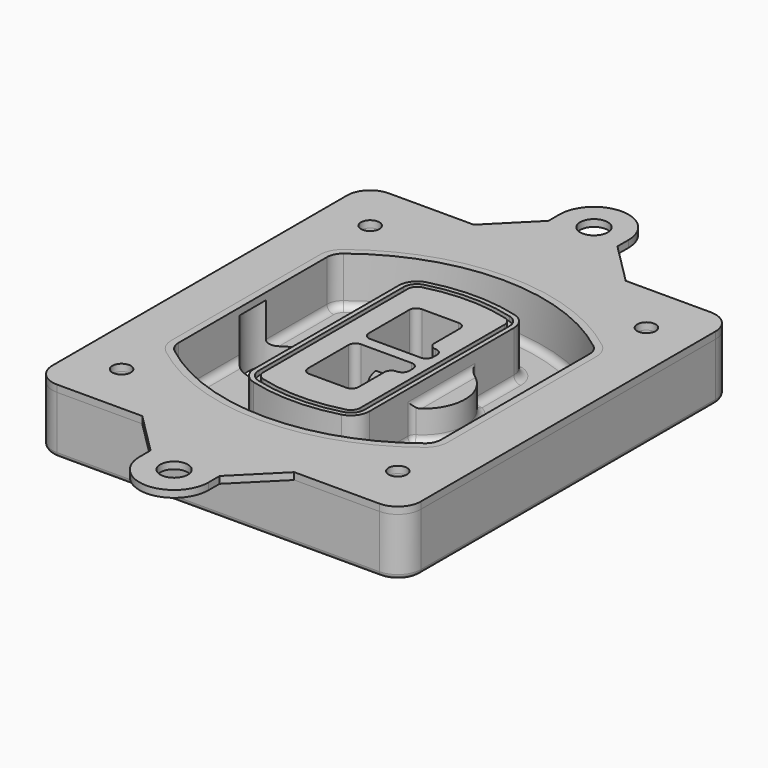
from build123d import *

# Parameters (mm, degrees)
F0_R      = 4
F1_DEPTH  = 25
F2_DEPTH  = 3
F3_DEPTH  = 18
F5_DEPTH  = 21
F6_DEPTH  = 2
F8_DEPTH  = 20
F9_DEPTH  = 16
F10_DEPTH = 25
F7_R      = 6
F7_R_2    = 4
F11_DEPTH = 6
F13_DEPTH = 9
F14_R     = 3
F15_R     = 2
F16_R     = 4
F16_R_2   = 6
F17_DEPTH = 3


with BuildPart() as f1:
    # F0 (on Top) → F1 (new body)
    with BuildSketch(Plane.XY):
        with BuildLine():
            ThreePointArc((-80, -80), (-77.0710678119, -87.0710678119), (-70, -90))
            Line((-70, -90), (70, -90))
            ThreePointArc((70, -90), (77.0710678119, -87.0710678119), (80, -80))
            Line((80, -80), (80, 80))
            ThreePointArc((80, 80), (77.0710678119, 87.0710678119), (70, 90))
            Line((70, 90), (-70, 90))
            ThreePointArc((-70, 90), (-77.0710678119, 87.0710678119), (-80, 80))
            Line((-80, 80), (-80, -80))
        make_face()
        with Locations((-60, -67.5)):
            Circle(F0_R, mode=Mode.SUBTRACT)
        with Locations((60, -67.5)):
            Circle(F0_R, mode=Mode.SUBTRACT)
        with Locations((-60, 67.5)):
            Circle(F0_R, mode=Mode.SUBTRACT)
        with BuildLine():
            ThreePointArc((-64, 40.2934422872), (-62.5820384798, 46.4328484224), (-58.6153846154, 51.3286200352))
            ThreePointArc((-58.6153846154, 51.3286200352), (0, 71.5), (58.6153846154, 51.3286200352))
            ThreePointArc((58.6153846154, 51.3286200352), (62.5820384798, 46.4328484224), (64, 40.2934422872))
            Line((64, 40.2934422872), (64, -40.2934422872))
            ThreePointArc((64, -40.2934422872), (62.5820384798, -46.4328484224), (58.6153846154, -51.3286200352))
            ThreePointArc((58.6153846154, -51.3286200352), (0, -71.5), (-58.6153846154, -51.3286200352))
            ThreePointArc((-58.6153846154, -51.3286200352), (-62.5820384798, -46.4328484224), (-64, -40.2934422872))
            Line((-64, -40.2934422872), (-64, 40.2934422872))
        make_face(mode=Mode.SUBTRACT)
        with Locations((60, 67.5)):
            Circle(F0_R, mode=Mode.SUBTRACT)
        with BuildLine():
            ThreePointArc((58.6153846154, 51.3286200352), (0, 71.5), (-58.6153846154, 51.3286200352))
            ThreePointArc((-58.6153846154, 51.3286200352), (-62.5820384798, 46.4328484224), (-64, 40.2934422872))
            Line((-64, 40.2934422872), (-64, -40.2934422872))
            ThreePointArc((-64, -40.2934422872), (-62.5820384798, -46.4328484224), (-58.6153846154, -51.3286200352))
            ThreePointArc((-58.6153846154, -51.3286200352), (0, -71.5), (58.6153846154, -51.3286200352))
            ThreePointArc((58.6153846154, -51.3286200352), (62.5820384798, -46.4328484224), (64, -40.2934422872))
            Line((64, -40.2934422872), (64, 40.2934422872))
            ThreePointArc((64, 40.2934422872), (62.5820384798, 46.4328484224), (58.6153846154, 51.3286200352))
        make_face()
        with BuildLine():
            Line((-60, -40.2934422872), (-60, 40.2934422872))
            ThreePointArc((-60, 40.2934422872), (-58.9871703427, 44.6787323838), (-56.1538461538, 48.1757121072))
            ThreePointArc((-56.1538461538, 48.1757121072), (0, 67.5), (56.1538461538, 48.1757121072))
            ThreePointArc((56.1538461538, 48.1757121072), (58.9871703427, 44.6787323838), (60, 40.2934422872))
            Line((60, 40.2934422872), (60, -40.2934422872))
            ThreePointArc((60, -40.2934422872), (58.9871703427, -44.6787323838), (56.1538461538, -48.1757121072))
            ThreePointArc((56.1538461538, -48.1757121072), (0, -67.5), (-56.1538461538, -48.1757121072))
            ThreePointArc((-56.1538461538, -48.1757121072), (-58.9871703427, -44.6787323838), (-60, -40.2934422872))
        make_face(mode=Mode.SUBTRACT)
        with BuildLine():
            ThreePointArc((-56.1538461538, 48.1757121072), (-58.9871703427, 44.6787323838), (-60, 40.2934422872))
            Line((-60, 40.2934422872), (-60, -40.2934422872))
            ThreePointArc((-60, -40.2934422872), (-58.9871703427, -44.6787323838), (-56.1538461538, -48.1757121072))
            ThreePointArc((-56.1538461538, -48.1757121072), (0, -67.5), (56.1538461538, -48.1757121072))
            ThreePointArc((56.1538461538, -48.1757121072), (58.9871703427, -44.6787323838), (60, -40.2934422872))
            Line((60, -40.2934422872), (60, 40.2934422872))
            ThreePointArc((60, 40.2934422872), (58.9871703427, 44.6787323838), (56.1538461538, 48.1757121072))
            ThreePointArc((56.1538461538, 48.1757121072), (0, 67.5), (-56.1538461538, 48.1757121072))
        make_face()
        with BuildLine():
            ThreePointArc((54.3076923077, 45.8110311612), (56.2910192399, 43.3631453548), (57, 40.2934422872))
            Line((57, 40.2934422872), (57, -40.2934422872))
            ThreePointArc((57, -40.2934422872), (56.2910192399, -43.3631453548), (54.3076923077, -45.8110311612))
            ThreePointArc((54.3076923077, -45.8110311612), (0, -64.5), (-54.3076923077, -45.8110311612))
            ThreePointArc((-54.3076923077, -45.8110311612), (-56.2910192399, -43.3631453548), (-57, -40.2934422872))
            Line((-57, -40.2934422872), (-57, 40.2934422872))
            ThreePointArc((-57, 40.2934422872), (-56.2910192399, 43.3631453548), (-54.3076923077, 45.8110311612))
            ThreePointArc((-54.3076923077, 45.8110311612), (0, 64.5), (54.3076923077, 45.8110311612))
        make_face(mode=Mode.SUBTRACT)
        with BuildLine():
            Line((57, -40.2934422872), (57, 40.2934422872))
            ThreePointArc((57, 40.2934422872), (56.2910192399, 43.3631453548), (54.3076923077, 45.8110311612))
            ThreePointArc((54.3076923077, 45.8110311612), (0, 64.5), (-54.3076923077, 45.8110311612))
            ThreePointArc((-54.3076923077, 45.8110311612), (-56.2910192399, 43.3631453548), (-57, 40.2934422872))
            Line((-57, 40.2934422872), (-57, -40.2934422872))
            ThreePointArc((-57, -40.2934422872), (-56.2910192399, -43.3631453548), (-54.3076923077, -45.8110311612))
            ThreePointArc((-54.3076923077, -45.8110311612), (0, -64.5), (54.3076923077, -45.8110311612))
            ThreePointArc((54.3076923077, -45.8110311612), (56.2910192399, -43.3631453548), (57, -40.2934422872))
        make_face()
    extrude(amount=-F1_DEPTH)

    # F0 (on Top) → F2 (join)
    with BuildSketch(Plane.XY):
        with BuildLine():
            ThreePointArc((-56.1538461538, 48.1757121072), (-58.9871703427, 44.6787323838), (-60, 40.2934422872))
            Line((-60, 40.2934422872), (-60, -40.2934422872))
            ThreePointArc((-60, -40.2934422872), (-58.9871703427, -44.6787323838), (-56.1538461538, -48.1757121072))
            ThreePointArc((-56.1538461538, -48.1757121072), (0, -67.5), (56.1538461538, -48.1757121072))
            ThreePointArc((56.1538461538, -48.1757121072), (58.9871703427, -44.6787323838), (60, -40.2934422872))
            Line((60, -40.2934422872), (60, 40.2934422872))
            ThreePointArc((60, 40.2934422872), (58.9871703427, 44.6787323838), (56.1538461538, 48.1757121072))
            ThreePointArc((56.1538461538, 48.1757121072), (0, 67.5), (-56.1538461538, 48.1757121072))
        make_face()
        with BuildLine():
            ThreePointArc((54.3076923077, 45.8110311612), (56.2910192399, 43.3631453548), (57, 40.2934422872))
            Line((57, 40.2934422872), (57, -40.2934422872))
            ThreePointArc((57, -40.2934422872), (56.2910192399, -43.3631453548), (54.3076923077, -45.8110311612))
            ThreePointArc((54.3076923077, -45.8110311612), (0, -64.5), (-54.3076923077, -45.8110311612))
            ThreePointArc((-54.3076923077, -45.8110311612), (-56.2910192399, -43.3631453548), (-57, -40.2934422872))
            Line((-57, -40.2934422872), (-57, 40.2934422872))
            ThreePointArc((-57, 40.2934422872), (-56.2910192399, 43.3631453548), (-54.3076923077, 45.8110311612))
            ThreePointArc((-54.3076923077, 45.8110311612), (0, 64.5), (54.3076923077, 45.8110311612))
        make_face(mode=Mode.SUBTRACT)
    extrude(amount=F2_DEPTH)

    # F0 (on Top) → F3 (cut)
    with BuildSketch(Plane.XY):
        with BuildLine():
            Line((57, -40.2934422872), (57, 40.2934422872))
            ThreePointArc((57, 40.2934422872), (56.2910192399, 43.3631453548), (54.3076923077, 45.8110311612))
            ThreePointArc((54.3076923077, 45.8110311612), (0, 64.5), (-54.3076923077, 45.8110311612))
            ThreePointArc((-54.3076923077, 45.8110311612), (-56.2910192399, 43.3631453548), (-57, 40.2934422872))
            Line((-57, 40.2934422872), (-57, -40.2934422872))
            ThreePointArc((-57, -40.2934422872), (-56.2910192399, -43.3631453548), (-54.3076923077, -45.8110311612))
            ThreePointArc((-54.3076923077, -45.8110311612), (0, -64.5), (54.3076923077, -45.8110311612))
            ThreePointArc((54.3076923077, -45.8110311612), (56.2910192399, -43.3631453548), (57, -40.2934422872))
        make_face()
    extrude(amount=-F3_DEPTH, mode=Mode.SUBTRACT)

    # F4 (on face) → F5 (join, through all)
    with BuildSketch(Plane.XY.offset(3)):
        with BuildLine():
            ThreePointArc((-25, -39.2465276821), (-23.3511545998, -44.1109737193), (-19.0842911877, -46.9702398883))
            ThreePointArc((-19.0842911877, -46.9702398883), (0, -49.5), (19.0842911877, -46.9702398883))
            ThreePointArc((19.0842911877, -46.9702398883), (23.3511545998, -44.1109737193), (25, -39.2465276821))
            Line((25, -39.2465276821), (25, 39.2465276821))
            ThreePointArc((25, 39.2465276821), (23.3511545998, 44.1109737193), (19.0842911877, 46.9702398883))
            ThreePointArc((19.0842911877, 46.9702398883), (0, 49.5), (-19.0842911877, 46.9702398883))
            ThreePointArc((-19.0842911877, 46.9702398883), (-23.3511545998, 44.1109737193), (-25, 39.2465276821))
            Line((-25, 39.2465276821), (-25, -39.2465276821))
        make_face()
        with BuildLine():
            ThreePointArc((18.5632183908, 45.0393118368), (21.7633659499, 42.89486221), (23, 39.2465276821))
            Line((23, 39.2465276821), (23, -39.2465276821))
            ThreePointArc((23, -39.2465276821), (21.7633659499, -42.89486221), (18.5632183908, -45.0393118368))
            ThreePointArc((18.5632183908, -45.0393118368), (0, -47.5), (-18.5632183908, -45.0393118368))
            ThreePointArc((-18.5632183908, -45.0393118368), (-21.7633659499, -42.89486221), (-23, -39.2465276821))
            Line((-23, -39.2465276821), (-23, 39.2465276821))
            ThreePointArc((-23, 39.2465276821), (-21.7633659499, 42.89486221), (-18.5632183908, 45.0393118368))
            ThreePointArc((-18.5632183908, 45.0393118368), (0, 47.5), (18.5632183908, 45.0393118368))
        make_face(mode=Mode.SUBTRACT)
        with BuildLine():
            Line((23, -39.2465276821), (23, 39.2465276821))
            ThreePointArc((23, 39.2465276821), (21.7633659499, 42.89486221), (18.5632183908, 45.0393118368))
            ThreePointArc((18.5632183908, 45.0393118368), (0, 47.5), (-18.5632183908, 45.0393118368))
            ThreePointArc((-18.5632183908, 45.0393118368), (-21.7633659499, 42.89486221), (-23, 39.2465276821))
            Line((-23, 39.2465276821), (-23, -39.2465276821))
            ThreePointArc((-23, -39.2465276821), (-21.7633659499, -42.89486221), (-18.5632183908, -45.0393118368))
            ThreePointArc((-18.5632183908, -45.0393118368), (0, -47.5), (18.5632183908, -45.0393118368))
            ThreePointArc((18.5632183908, -45.0393118368), (21.7633659499, -42.89486221), (23, -39.2465276821))
        make_face()
        with BuildLine():
            ThreePointArc((18.0421455939, 43.1083837852), (20.1755772999, 41.6787507007), (21, 39.2465276821))
            Line((21, 39.2465276821), (21, -39.2465276821))
            ThreePointArc((21, -39.2465276821), (20.1755772999, -41.6787507007), (18.0421455939, -43.1083837852))
            ThreePointArc((18.0421455939, -43.1083837852), (0, -45.5), (-18.0421455939, -43.1083837852))
            ThreePointArc((-18.0421455939, -43.1083837852), (-20.1755772999, -41.6787507007), (-21, -39.2465276821))
            Line((-21, -39.2465276821), (-21, 39.2465276821))
            ThreePointArc((-21, 39.2465276821), (-20.1755772999, 41.6787507007), (-18.0421455939, 43.1083837852))
            ThreePointArc((-18.0421455939, 43.1083837852), (0, 45.5), (18.0421455939, 43.1083837852))
        make_face(mode=Mode.SUBTRACT)
        with BuildLine():
            Line((21, -39.2465276821), (21, 39.2465276821))
            ThreePointArc((21, 39.2465276821), (20.1755772999, 41.6787507007), (18.0421455939, 43.1083837852))
            ThreePointArc((18.0421455939, 43.1083837852), (0, 45.5), (-18.0421455939, 43.1083837852))
            ThreePointArc((-18.0421455939, 43.1083837852), (-20.1755772999, 41.6787507007), (-21, 39.2465276821))
            Line((-21, 39.2465276821), (-21, -39.2465276821))
            ThreePointArc((-21, -39.2465276821), (-20.1755772999, -41.6787507007), (-18.0421455939, -43.1083837852))
            ThreePointArc((-18.0421455939, -43.1083837852), (0, -45.5), (18.0421455939, -43.1083837852))
            ThreePointArc((18.0421455939, -43.1083837852), (20.1755772999, -41.6787507007), (21, -39.2465276821))
        make_face()
        with BuildLine():
            Line((-8, -2.5), (14, -2.5))
            ThreePointArc((14, -2.5), (16.1213203436, -3.3786796564), (17, -5.5))
            Line((17, -5.5), (17, -7.5))
            ThreePointArc((17, -7.5), (16.1213203436, -9.6213203436), (14, -10.5))
            ThreePointArc((14, -10.5), (11.8786796564, -11.3786796564), (11, -13.5))
            Line((11, -13.5), (11, -27.5))
            ThreePointArc((11, -27.5), (10.1213203436, -29.6213203436), (8, -30.5))
            Line((8, -30.5), (-8, -30.5))
            ThreePointArc((-8, -30.5), (-10.1213203436, -29.6213203436), (-11, -27.5))
            Line((-11, -27.5), (-11, -5.5))
            ThreePointArc((-11, -5.5), (-10.1213203436, -3.3786796564), (-8, -2.5))
        make_face(mode=Mode.SUBTRACT)
        with BuildLine():
            ThreePointArc((-8, 2.5), (-10.1213203436, 3.3786796564), (-11, 5.5))
            Line((-11, 5.5), (-11, 27.5))
            ThreePointArc((-11, 27.5), (-10.1213203436, 29.6213203436), (-8, 30.5))
            Line((-8, 30.5), (8, 30.5))
            ThreePointArc((8, 30.5), (10.1213203436, 29.6213203436), (11, 27.5))
            Line((11, 27.5), (11, 13.5))
            ThreePointArc((11, 13.5), (11.8786796564, 11.3786796564), (14, 10.5))
            ThreePointArc((14, 10.5), (16.1213203436, 9.6213203436), (17, 7.5))
            Line((17, 7.5), (17, 5.5))
            ThreePointArc((17, 5.5), (16.1213203436, 3.3786796564), (14, 2.5))
            Line((14, 2.5), (-8, 2.5))
        make_face(mode=Mode.SUBTRACT)
    extrude(amount=-F5_DEPTH)

    # F4 (on face) → F6 (cut)
    with BuildSketch(Plane.XY.offset(3)):
        with BuildLine():
            Line((23, -39.2465276821), (23, 39.2465276821))
            ThreePointArc((23, 39.2465276821), (21.7633659499, 42.89486221), (18.5632183908, 45.0393118368))
            ThreePointArc((18.5632183908, 45.0393118368), (0, 47.5), (-18.5632183908, 45.0393118368))
            ThreePointArc((-18.5632183908, 45.0393118368), (-21.7633659499, 42.89486221), (-23, 39.2465276821))
            Line((-23, 39.2465276821), (-23, -39.2465276821))
            ThreePointArc((-23, -39.2465276821), (-21.7633659499, -42.89486221), (-18.5632183908, -45.0393118368))
            ThreePointArc((-18.5632183908, -45.0393118368), (0, -47.5), (18.5632183908, -45.0393118368))
            ThreePointArc((18.5632183908, -45.0393118368), (21.7633659499, -42.89486221), (23, -39.2465276821))
        make_face()
        with BuildLine():
            ThreePointArc((18.0421455939, 43.1083837852), (20.1755772999, 41.6787507007), (21, 39.2465276821))
            Line((21, 39.2465276821), (21, -39.2465276821))
            ThreePointArc((21, -39.2465276821), (20.1755772999, -41.6787507007), (18.0421455939, -43.1083837852))
            ThreePointArc((18.0421455939, -43.1083837852), (0, -45.5), (-18.0421455939, -43.1083837852))
            ThreePointArc((-18.0421455939, -43.1083837852), (-20.1755772999, -41.6787507007), (-21, -39.2465276821))
            Line((-21, -39.2465276821), (-21, 39.2465276821))
            ThreePointArc((-21, 39.2465276821), (-20.1755772999, 41.6787507007), (-18.0421455939, 43.1083837852))
            ThreePointArc((-18.0421455939, 43.1083837852), (0, 45.5), (18.0421455939, 43.1083837852))
        make_face(mode=Mode.SUBTRACT)
    extrude(amount=-F6_DEPTH, mode=Mode.SUBTRACT)

    # F7 (on face) → F8 (join)
    with BuildSketch(Plane(origin=(0, 0, -25), x_dir=(1, 0, 0), z_dir=(0, 0, -1))):
        with BuildLine():
            ThreePointArc((3.28842436, 0), (16.7567035675, 13.4682792075), (30.224982775, 0))
            Line((30.224982775, 0), (35.224982775, 0))
            ThreePointArc((35.224982775, 0), (16.7567035675, 18.4682792075), (-1.71157564, 0))
            Line((-1.71157564, 0), (3.28842436, 0))
        make_face()
        with BuildLine():
            Line((3.28842436, 0), (30.224982775, 0))
            ThreePointArc((30.224982775, 0), (16.7567035675, 13.4682792075), (3.28842436, 0))
        make_face()
        with BuildLine():
            ThreePointArc((3.28842436, 0), (16.7567035675, -13.4682792075), (30.224982775, 0))
            Line((30.224982775, 0), (3.28842436, 0))
        make_face()
        with BuildLine():
            Line((35.224982775, 0), (30.224982775, 0))
            ThreePointArc((30.224982775, 0), (16.7567035675, -13.4682792075), (3.28842436, 0))
            Line((3.28842436, 0), (-1.71157564, 0))
            ThreePointArc((-1.71157564, 0), (16.7567035675, -18.4682792075), (35.224982775, 0))
        make_face()
    extrude(amount=-F8_DEPTH)

    # F7 (on face) → F9 (cut)
    with BuildSketch(Plane(origin=(0, 0, -25), x_dir=(1, 0, 0), z_dir=(0, 0, -1))):
        with BuildLine():
            Line((3.28842436, 0), (30.224982775, 0))
            ThreePointArc((30.224982775, 0), (16.7567035675, 13.4682792075), (3.28842436, 0))
        make_face()
        with BuildLine():
            ThreePointArc((3.28842436, 0), (16.7567035675, -13.4682792075), (30.224982775, 0))
            Line((30.224982775, 0), (3.28842436, 0))
        make_face()
    extrude(amount=-F9_DEPTH, mode=Mode.SUBTRACT)

    # F7 (on face) → F10 (cut)
    with BuildSketch(Plane(origin=(0, 0, -25), x_dir=(1, 0, 0), z_dir=(0, 0, -1))):
        with BuildLine():
            Line((-59.0318229325, 0), (-32.0952645175, 0))
            ThreePointArc((-32.0952645175, 0), (-45.563543725, 13.4682792075), (-59.0318229325, 0))
        make_face()
        with BuildLine():
            ThreePointArc((-59.0318229325, 0), (-45.563543725, -13.4682792075), (-32.0952645175, 0))
            Line((-32.0952645175, 0), (-59.0318229325, 0))
        make_face()
    extrude(amount=-F10_DEPTH, mode=Mode.SUBTRACT)

    # F7 (on face) → F11 (cut)
    with BuildSketch(Plane(origin=(0, 0, -25), x_dir=(1, 0, 0), z_dir=(0, 0, -1))):
        with Locations((60, -67.5)):
            Circle(F7_R)
        with Locations((60, -67.5)):
            Circle(F7_R_2, mode=Mode.SUBTRACT)
        with Locations((60, -67.5)):
            Circle(F7_R)
        with Locations((60, -67.5)):
            Circle(F7_R_2, mode=Mode.SUBTRACT)
        with Locations((-60, -67.5)):
            Circle(F7_R)
        with Locations((-60, -67.5)):
            Circle(F7_R_2, mode=Mode.SUBTRACT)
        with Locations((-60, -67.5)):
            Circle(F7_R)
        with Locations((-60, -67.5)):
            Circle(F7_R_2, mode=Mode.SUBTRACT)
        with Locations((-60, 67.5)):
            Circle(F7_R)
        with Locations((-60, 67.5)):
            Circle(F7_R_2, mode=Mode.SUBTRACT)
        with Locations((-60, 67.5)):
            Circle(F7_R)
        with Locations((-60, 67.5)):
            Circle(F7_R_2, mode=Mode.SUBTRACT)
        with Locations((60, 67.5)):
            Circle(F7_R)
        with Locations((60, 67.5)):
            Circle(F7_R_2, mode=Mode.SUBTRACT)
        with Locations((60, 67.5)):
            Circle(F7_R)
        with Locations((60, 67.5)):
            Circle(F7_R_2, mode=Mode.SUBTRACT)
    extrude(amount=-F11_DEPTH, mode=Mode.SUBTRACT)

    # F12 (on face) → F13 (cut, through all)
    with BuildSketch(Plane(origin=(0, 0, -9), x_dir=(1, 0, 0), z_dir=(0, 0, -1))):
        with BuildLine():
            Line((11, 13.5), (11, 17.5481537753))
            ThreePointArc((11, 17.5481537753), (2.5696536419, 11.8239143813), (-1.5415842455, 2.5))
            Line((-1.5415842455, 2.5), (3.5224848595, 2.5))
            ThreePointArc((3.5224848595, 2.5), (6.1857188154, 8.3455872281), (11.2536447004, 12.2927168648))
            ThreePointArc((11.2536447004, 12.2927168648), (11.0640958889, 12.8831798879), (11, 13.5))
        make_face()
        with BuildLine():
            ThreePointArc((11.2536447004, -12.2927168648), (6.1857188154, -8.3455872281), (3.5224848595, -2.5))
            Line((3.5224848595, -2.5), (-1.5415842455, -2.5))
            ThreePointArc((-1.5415842455, -2.5), (2.5696536419, -11.8239143813), (11, -17.5481537753))
            Line((11, -17.5481537753), (11, -13.5))
            ThreePointArc((11, -13.5), (11.0640958889, -12.8831798879), (11.2536447004, -12.2927168648))
        make_face()
        with BuildLine():
            ThreePointArc((11.2536447004, 12.2927168648), (6.1857188154, 8.3455872281), (3.5224848595, 2.5))
            Line((3.5224848595, 2.5), (14, 2.5))
            ThreePointArc((14, 2.5), (16.1213203436, 3.3786796564), (17, 5.5))
            Line((17, 5.5), (17, 7.5))
            ThreePointArc((17, 7.5), (16.1213203436, 9.6213203436), (14, 10.5))
            ThreePointArc((14, 10.5), (12.3601599782, 10.9878446101), (11.2536447004, 12.2927168648))
        make_face()
        with BuildLine():
            Line((14, -2.5), (3.5224848595, -2.5))
            ThreePointArc((3.5224848595, -2.5), (6.1857188154, -8.3455872281), (11.2536447004, -12.2927168648))
            ThreePointArc((11.2536447004, -12.2927168648), (12.3601599782, -10.9878446101), (14, -10.5))
            ThreePointArc((14, -10.5), (16.1213203436, -9.6213203436), (17, -7.5))
            Line((17, -7.5), (17, -5.5))
            ThreePointArc((17, -5.5), (16.1213203436, -3.3786796564), (14, -2.5))
        make_face()
    extrude(amount=F13_DEPTH, mode=Mode.SUBTRACT)

    # F14
    f14_edges = [f1.edges().sort_by_distance(p)[0] for p in [
        (-57, -23.703476, -18),
        (-57, 23.703476, -18),
        (25, 0, -5),
        (25, 16.526506, -11.5),
        (25, -16.526506, -11.5),
        (25, -27.886517, -18),
        (35.224983, 0, -18),
    ]]
    fillet(f14_edges, radius=F14_R)

    # F15
    f15_edges = [f1.edges().sort_by_distance(p)[0] for p in [
        (0, -90, -25),
    ]]
    fillet(f15_edges, radius=F15_R)


with BuildPart() as f17:
    # F16 (on face) → F17 (new body, through all)
    with BuildSketch(Plane.XY):
        with BuildLine():
            Line((-33, 90), (-70, 90))
            ThreePointArc((-70, 90), (-77.0710678119, 87.0710678119), (-80, 80))
            Line((-80, 80), (-80, -80))
            ThreePointArc((-80, -80), (-77.0710678119, -87.0710678119), (-70, -90))
            Line((-70, -90), (-33, -90))
            Line((-33, -90), (33, -90))
            Line((33, -90), (70, -90))
            ThreePointArc((70, -90), (77.0710678119, -87.0710678119), (80, -80))
            Line((80, -80), (80, 80))
            ThreePointArc((80, 80), (77.0710678119, 87.0710678119), (70, 90))
            Line((70, 90), (33, 90))
            Line((33, 90), (-33, 90))
        make_face()
        with Locations((-60, -67.5)):
            Circle(F16_R, mode=Mode.SUBTRACT)
        with Locations((60, -67.5)):
            Circle(F16_R, mode=Mode.SUBTRACT)
        with Locations((-60, 67.5)):
            Circle(F16_R, mode=Mode.SUBTRACT)
        with BuildLine():
            ThreePointArc((56.1538461538, -48.1757121072), (0, -67.5), (-56.1538461538, -48.1757121072))
            ThreePointArc((-56.1538461538, -48.1757121072), (-58.9871703427, -44.6787323838), (-60, -40.2934422872))
            Line((-60, -40.2934422872), (-60, 40.2934422872))
            ThreePointArc((-60, 40.2934422872), (-58.9871703427, 44.6787323838), (-56.1538461538, 48.1757121072))
            ThreePointArc((-56.1538461538, 48.1757121072), (0, 67.5), (56.1538461538, 48.1757121072))
            ThreePointArc((56.1538461538, 48.1757121072), (58.9871703427, 44.6787323838), (60, 40.2934422872))
            Line((60, 40.2934422872), (60, -40.2934422872))
            ThreePointArc((60, -40.2934422872), (58.9871703427, -44.6787323838), (56.1538461538, -48.1757121072))
        make_face(mode=Mode.SUBTRACT)
        with Locations((60, 67.5)):
            Circle(F16_R, mode=Mode.SUBTRACT)
        with BuildLine():
            Line((-15, 108), (-33, 90))
            Line((-33, 90), (33, 90))
            Line((33, 90), (15, 108))
            Line((15, 108), (15, 114))
            ThreePointArc((15, 114), (0, 129), (-15, 114))
            Line((-15, 114), (-15, 108))
        make_face()
        with Locations((0, 114)):
            Circle(F16_R_2, mode=Mode.SUBTRACT)
        with BuildLine():
            Line((33, -90), (-33, -90))
            Line((-33, -90), (-15, -108))
            Line((-15, -108), (-15, -114))
            ThreePointArc((-15, -114), (0, -129), (15, -114))
            Line((15, -114), (15, -108))
            Line((15, -108), (33, -90))
        make_face()
        with Locations((0, -114)):
            Circle(F16_R_2, mode=Mode.SUBTRACT)
    extrude(amount=F17_DEPTH)


solid = Compound([f1.part, f17.part])
